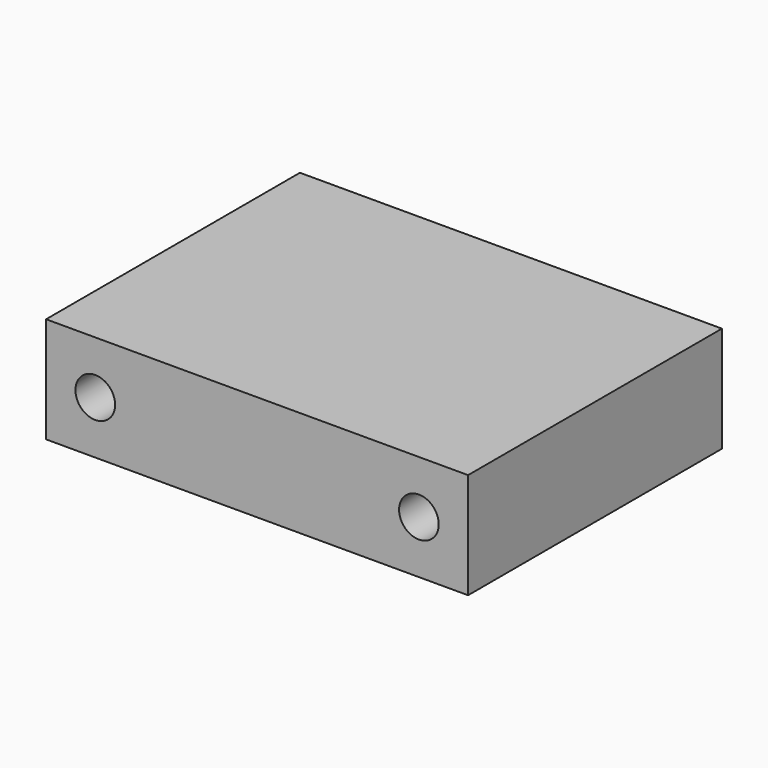
from build123d import *

# Parameters (mm, degrees)
F0_R     = 1.5875
F1_DEPTH = 25.4


with BuildPart() as f1:
    # F0 (on Front) → F1 (new body)
    with BuildSketch(Plane.XZ):
        with Locations((29.845, 4.233333)):
            Circle(F0_R)
        with BuildLine():
            ThreePointArc((5.5245, 4.233333), (3.937, 5.820833), (2.3495, 4.233333))
            ThreePointArc((2.3495, 4.233333), (3.937, 2.645833), (5.5245, 4.233333))
        make_face()
        Polygon((0, 4.233333), (0, 0), (33.782, 0), (33.782, 4.233333), (33.782, 8.466667), (0, 8.466667), align=None)
        with BuildLine():
            ThreePointArc((5.5245, 4.233333), (3.937, 2.645833), (2.3495, 4.233333))
            ThreePointArc((2.3495, 4.233333), (3.937, 5.820833), (5.5245, 4.233333))
        make_face(mode=Mode.SUBTRACT)
        with Locations((29.845, 4.233333)):
            Circle(F0_R, mode=Mode.SUBTRACT)
    extrude(amount=F1_DEPTH)


solid = f1.part
